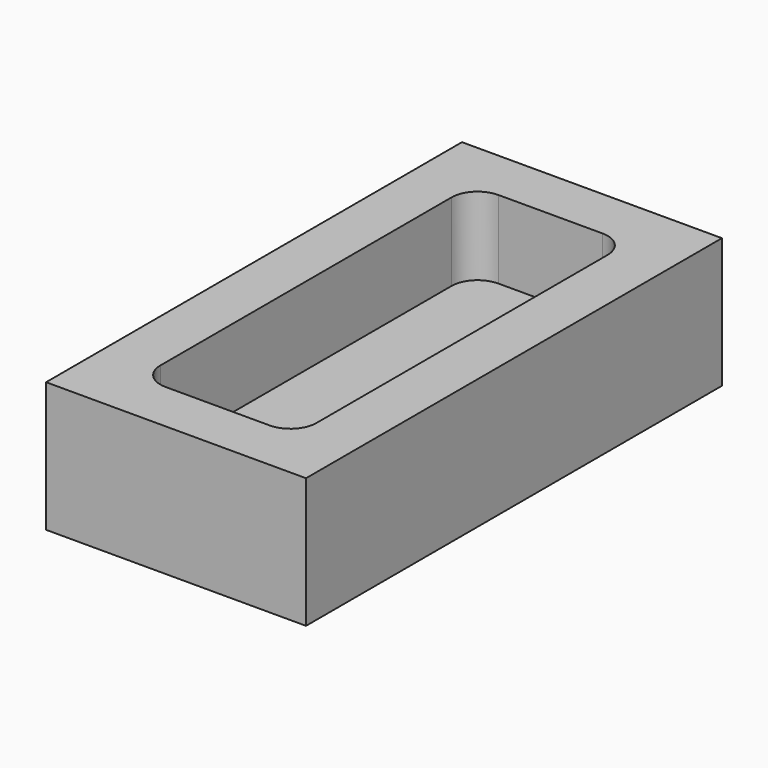
from build123d import *

# Parameters (mm, degrees)
F0_W     = 50
F0_H     = 100
F1_DEPTH = 25
F2_T     = -10
F3_R     = 5


with BuildPart() as f1:
    # F0 (on Top) → F1 (new body)
    with BuildSketch(Plane.XY):
        with Locations((25, 50)):
            Rectangle(F0_W, F0_H)
    extrude(amount=F1_DEPTH)

    # F2
    f2_openings = [f1.faces().sort_by_distance(p)[0] for p in [
        (25, 50, 25),
    ]]
    offset(amount=F2_T, openings=f2_openings)

    # F3
    f3_edges = [f1.edges().sort_by_distance(p)[0] for p in [
        (10, 90, 17.5),
        (40, 90, 17.5),
        (40, 10, 17.5),
        (10, 10, 17.5),
    ]]
    fillet(f3_edges, radius=F3_R)


solid = f1.part
